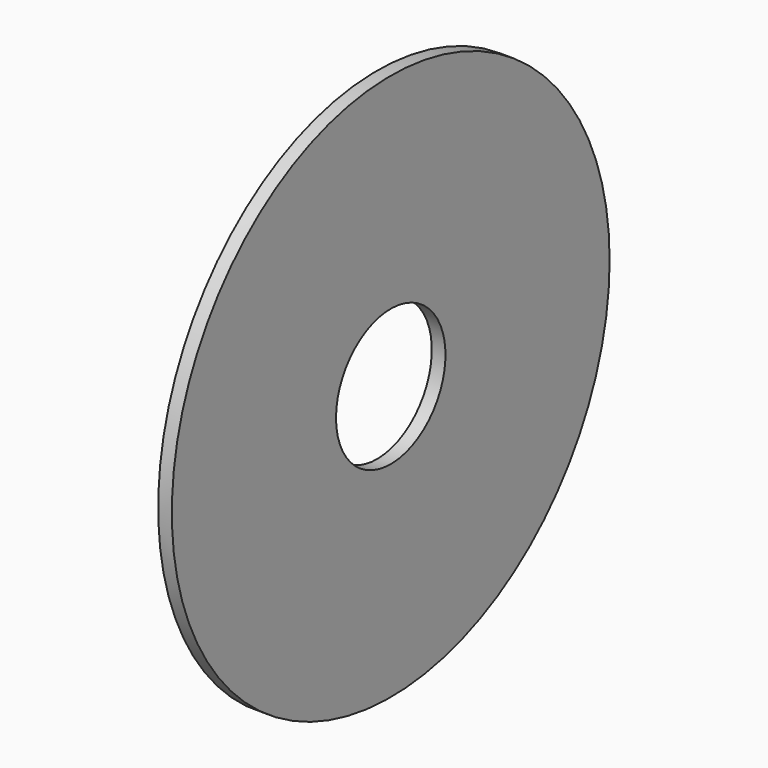
from build123d import *

# Parameters (mm, degrees)
F0_R     = 20
F1_DEPTH = 1
F3_D     = 10


with BuildPart() as f1:
    # F0 (on Right) → F1 (new body)
    with BuildSketch(Plane.YZ):
        Circle(F0_R)
    extrude(amount=F1_DEPTH)

    # F3 (through all)
    with Locations(Plane.YZ.offset(1)):
        with Locations((0, 0)):
            Hole(F3_D / 2)


solid = f1.part
